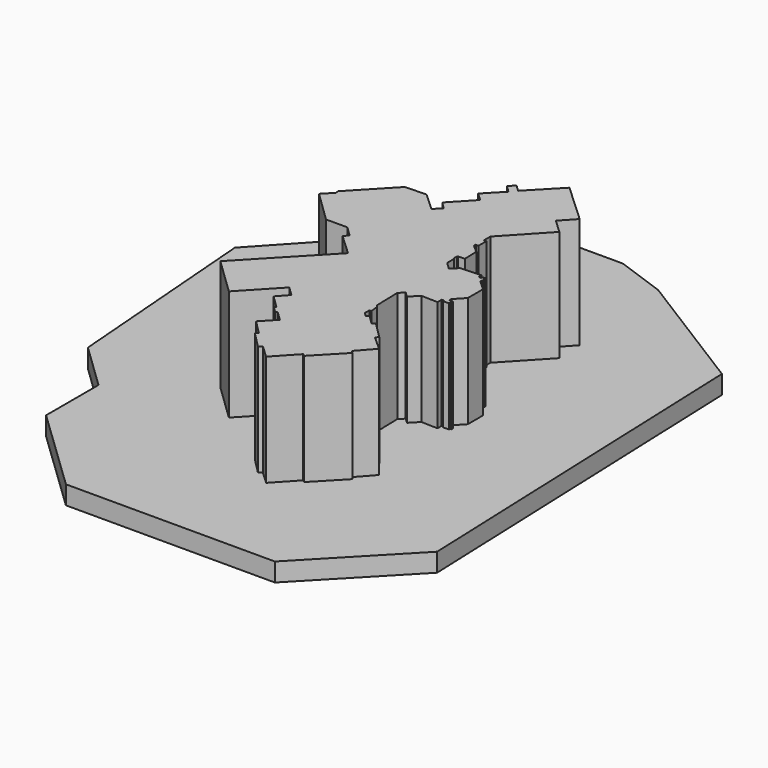
from build123d import *

# Parameters (mm, degrees)
F1_DEPTH = 3.175
F3_DEPTH = 19.05


with BuildPart() as f1:
    # F0 (on Top) → F1 (new body)
    with BuildSketch(Plane.XY):
        Polygon((-6.376508, 49.342029), (-23.076888, 49.342029), (-49.797498, 20.495921), (-47.064707, -14.423055), (-39.169982, -22.014137), (-39.169982, -33.248939), (-24.595104, -47.216527), (11.2348, -47.216527), (26.416963, -31.427078), (23.987817, 32.641653), (2.125504, 46.305597), align=None)
    extrude(amount=F1_DEPTH)

    # F2 (on face) → F3 (join)
    with BuildSketch(Plane.XY.offset(3.175)):
        Polygon((-8.460995, 27.465437), (-11.228689, 24.592964), (-11.348982, 24.524076), (-9.913685, 23.236642), (-13.435121, 19.491888), (-12.22126, 18.288707), (-13.399718, 17.099788), (-16.536398, 19.992249), (-20.168586, 19.855836), (-26.357489, 13.332929), (-26.323888, 12.755173), (-27.889514, 11.144508), (-22.5223, 5.927376), (-18.850569, 5.927376), (-17.138056, 4.265048), (-17.792482, 3.562842), (-14.112623, 0.133369), (-26.007337, -12.359691), (-19.639645, -18.486787), (-14.043322, -12.538724), (-12.448313, -14.067535), (-14.063996, -15.8737), (-11.844858, -18.042777), (-12.050118, -18.322865), (-11.044608, -19.302705), (-10.794753, -19.093755), (-9.155537, -20.661877), (-11.380946, -22.98818), (-8.972317, -25.390465), (-9.373238, -25.763512), (-6.614087, -28.535001), (-6.119217, -28.101891), (-3.923855, -30.145049), (-0.503454, -26.469847), (-0.103788, -26.803728), (4.414968, -22.089956), (3.978584, -21.701956), (6.45714, -18.914325), (3.959461, -16.693573), (4.355696, -16.247928), (1.59003, -13.500487), (1.090108, -13.844529), (-0.447387, -12.295595), (-0.811736, -12.657254), (-1.514613, -12.009452), (-1.514613, -11.054762), (-1.210493, -10.994076), (-1.318271, -9.644587), (-1.644679, -9.281886), (-1.758982, -4.754005), (-0.961826, -3.935312), (-0.075062, -4.786007), (1.278446, -3.385739), (4.118848, -3.463889), (4.094383, -2.561527), (4.542976, -2.546137), (4.551455, -2.793258), (5.533939, -2.759551), (5.525281, -2.507171), (5.788588, -2.498137), (5.778686, -2.209507), (5.589116, -2.216011), (5.582301, -2.017371), (5.014059, -2.036866), (5.014059, -1.625905), (6.536589, 0), (6.536589, 3.26362), (4.851062, 4.788233), (4.851062, 5.139193), (5.149924, 5.139193), (5.149924, 5.555849), (4.798602, 5.562526), (4.78719, 5.939749), (4.315158, 5.927964), (4.321792, 5.662222), (3.875091, 5.65107), (3.843151, 6.305763), (0.32336, 6.13405), (-0.74368, 5.033409), (-1.989887, 6.241571), (-1.989887, 7.703635), (-2.126578, 7.832781), (-2.126578, 8.485694), (-2.019443, 8.595361), (-0.881753, 8.62518), (-0.94862, 11.176316), (-2.304457, 12.350309), (-2.304457, 12.754479), (-1.808271, 12.702593), (-1.808271, 14.441202), (-2.231573, 14.441202), (-2.231573, 15.810389), (4.134082, 22.619085), (1.735728, 24.861378), (3.927975, 27.229989), (-2.817733, 33.473419), (-7.63093, 28.478006), (-8.747748, 29.554086), (-9.653301, 28.614251), align=None)
    extrude(amount=F3_DEPTH)


solid = f1.part
